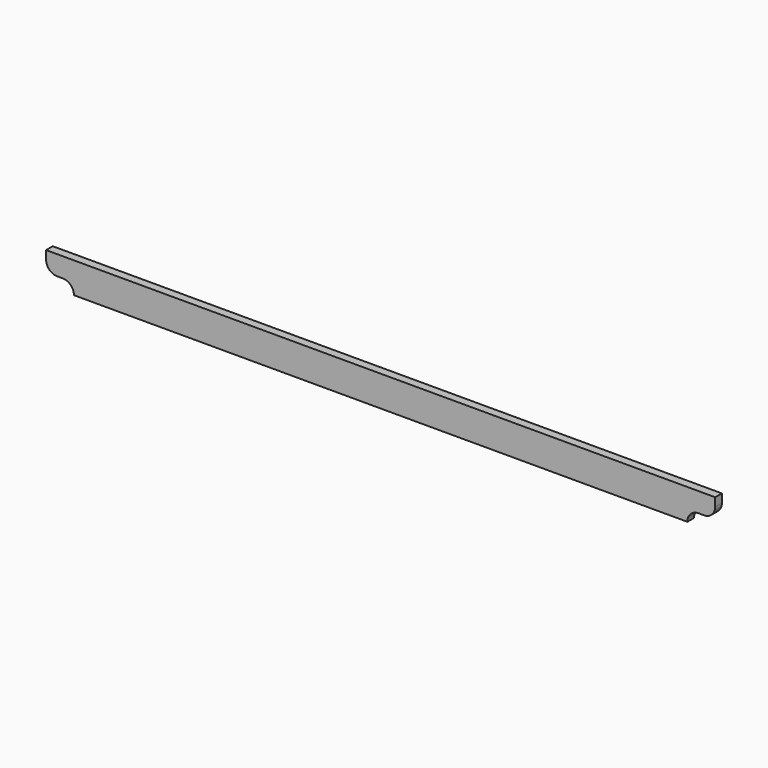
from build123d import *

# Parameters (mm, degrees)
F1_DEPTH = 19.05


with BuildPart() as f1:
    # F0 (on Front) → F1 (new body, symmetric)
    with BuildSketch(Plane.XZ):
        with BuildLine():
            ThreePointArc((-1447.8, 50.8), (-1411.878976, 35.921024), (-1397, 0))
            Line((-1397, 0), (1397, 0))
            ThreePointArc((1397, 0), (1411.878976, 35.921024), (1447.8, 50.8))
            Line((1447.8, 50.8), (1473.2, 50.8))
            ThreePointArc((1473.2, 50.8), (1509.121024, 65.678976), (1524, 101.6))
            Line((1524, 101.6), (1524, 139.7))
            Line((1524, 139.7), (-1524, 139.7))
            Line((-1524, 139.7), (-1524, 101.6))
            ThreePointArc((-1524, 101.6), (-1509.121024, 65.678976), (-1473.2, 50.8))
            Line((-1473.2, 50.8), (-1447.8, 50.8))
        make_face()
    extrude(amount=F1_DEPTH, both=True)


solid = f1.part
